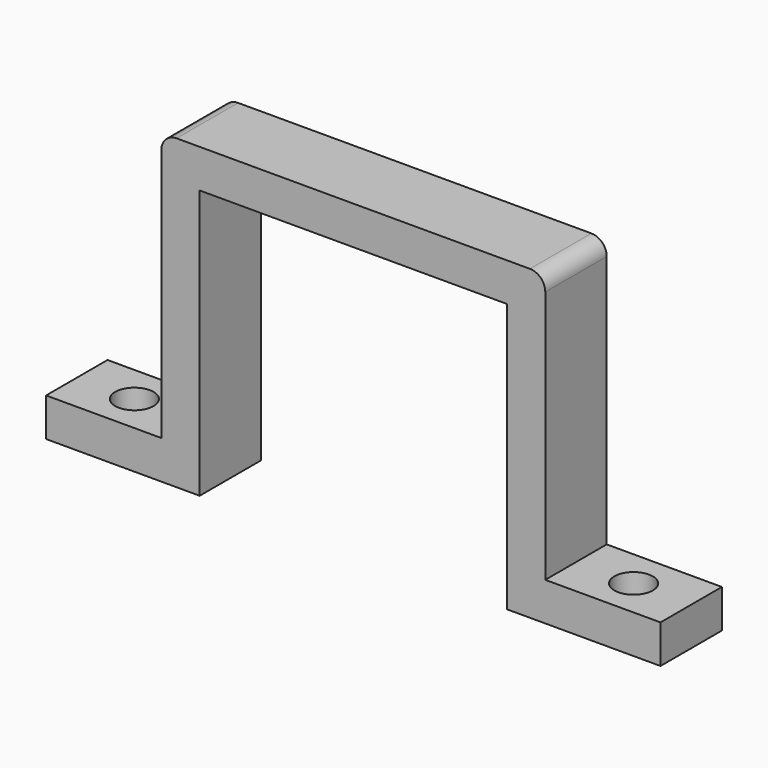
from build123d import *

# Parameters (mm, degrees)
F0_W      = 127
F0_H      = 25.4
F1_DEPTH  = 12.7
F2_W      = 12.7
F2_H      = 25.4
F3_DEPTH  = 76.2
F4_W      = 12.7
F4_H      = 25.4
F5_DEPTH  = 76.2
F6_W      = 50.8
F6_H      = 25.4
F7_DEPTH  = 12.7
F8_W      = 50.8
F8_H      = 25.4
F9_DEPTH  = 12.7
F11_DEPTH = 25.4
F13_DEPTH = 25.4
F14_R     = 5.08
F15_R     = 5.08


with BuildPart() as f1:
    # F0 (on Top) → F1 (new body)
    with BuildSketch(Plane.XY):
        Rectangle(F0_W, F0_H)
    extrude(amount=F1_DEPTH)

    # F2 (on face) → F3 (join)
    with BuildSketch(Plane(origin=(0, 0, 0), x_dir=(1, 0, 0), z_dir=(0, 0, -1))):
        with Locations((57.15, 0)):
            Rectangle(F2_W, F2_H)
    extrude(amount=F3_DEPTH)

    # F4 (on face) → F5 (join)
    with BuildSketch(Plane(origin=(0, 0, 0), x_dir=(1, 0, 0), z_dir=(0, 0, -1))):
        with Locations((-57.15, 0)):
            Rectangle(F4_W, F4_H)
    extrude(amount=F5_DEPTH)

    # F6 (on face) → F7 (join)
    with BuildSketch(Plane(origin=(0, 0, -76.2), x_dir=(1, 0, 0), z_dir=(0, 0, -1))):
        with Locations((-76.2, 0)):
            Rectangle(F6_W, F6_H)
    extrude(amount=F7_DEPTH)

    # F8 (on face) → F9 (join)
    with BuildSketch(Plane(origin=(0, 0, -76.2), x_dir=(1, 0, 0), z_dir=(0, 0, -1))):
        with Locations((76.2, 0)):
            Rectangle(F8_W, F8_H)
    extrude(amount=F9_DEPTH)

    # F10 (on face) → F11 (cut)
    with BuildSketch(Plane.XY.offset(-76.2)):
        with BuildLine():
            ThreePointArc((76.2, 0), (82.55, -6.35), (88.9, 0))
            Line((88.9, 0), (76.2, 0))
        make_face()
        with BuildLine():
            Line((76.2, 0), (88.9, 0))
            ThreePointArc((88.9, 0), (82.55, 6.35), (76.2, 0))
        make_face()
    extrude(amount=-F11_DEPTH, mode=Mode.SUBTRACT)

    # F12 (on face) → F13 (cut)
    with BuildSketch(Plane.XY.offset(-76.2)):
        with BuildLine():
            ThreePointArc((-76.2, 0), (-82.55, 6.35), (-88.9, 0))
            Line((-88.9, 0), (-76.2, 0))
        make_face()
        with BuildLine():
            Line((-76.2, 0), (-88.9, 0))
            ThreePointArc((-88.9, 0), (-82.55, -6.35), (-76.2, 0))
        make_face()
    extrude(amount=-F13_DEPTH, mode=Mode.SUBTRACT)

    # F14
    f14_edges = [f1.edges().sort_by_distance(p)[0] for p in [
        (63.5, 0, 12.7),
    ]]
    fillet(f14_edges, radius=F14_R)

    # F15
    f15_edges = [f1.edges().sort_by_distance(p)[0] for p in [
        (-63.5, 0, 12.7),
    ]]
    fillet(f15_edges, radius=F15_R)


solid = f1.part
